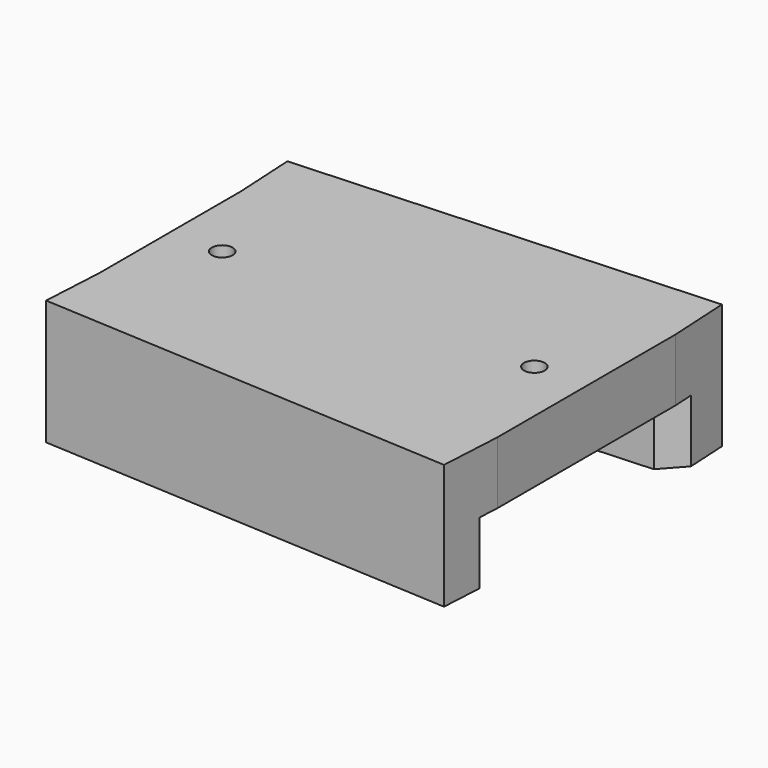
from build123d import *

# Parameters (mm, degrees)
F1_DEPTH = 6
F3_DEPTH = 3
F4_R     = 0.5
F5_DEPTH = 3
F6_SIZE  = 1


with BuildPart() as f1:
    # F0 (on Top) → F1 (new body)
    with BuildSketch(Plane.XY):
        Polygon((10, -5.35), (-10, -4.25), (-10.1647510023, -7.2454727686), (9.8352489977, -8.3454727686), align=None)
    extrude(amount=-F1_DEPTH)



with BuildPart() as f1b:
    # F0 (on Top) → F1, piece 2 (new body)
    with BuildSketch(Plane.XY):
        Polygon((9.8352489977, 8.3454727686), (-10.1647510023, 7.2454727686), (-10, 4.25), (10, 5.35), align=None)
    extrude(amount=-F1_DEPTH)


with BuildPart() as f1_1:
    add(f1.part)

    add(f1b.part)  # F3 merges F1b
    # F2 (on face) → F3 (join)
    with BuildSketch(Plane.XY):
        Polygon((10, 5.35), (-10, 4.25), (-10, -4.25), (10, -5.35), align=None)
    extrude(amount=-F3_DEPTH)

    # F4 (on face) → F5 (cut)
    with BuildSketch(Plane.XY):
        with Locations((-7.5, 0)):
            Circle(F4_R)
        with Locations((7.5, 0)):
            Circle(F4_R)
    extrude(amount=-F5_DEPTH, mode=Mode.SUBTRACT)

    # F6
    f6_edges = [f1_1.edges().sort_by_distance(p)[0] for p in [
        (-10, 4.25, -4.5),
        (-10, 4.25, -1.5),
        (10, 5.35, -1.5),
        (10, 5.35, -4.5),
        (10, -5.35, -1.5),
        (10, -5.35, -4.5),
        (-10, -4.25, -4.5),
        (-10, -4.25, -1.5),
    ]]
    chamfer(f6_edges, length=F6_SIZE)


solid = f1_1.part
